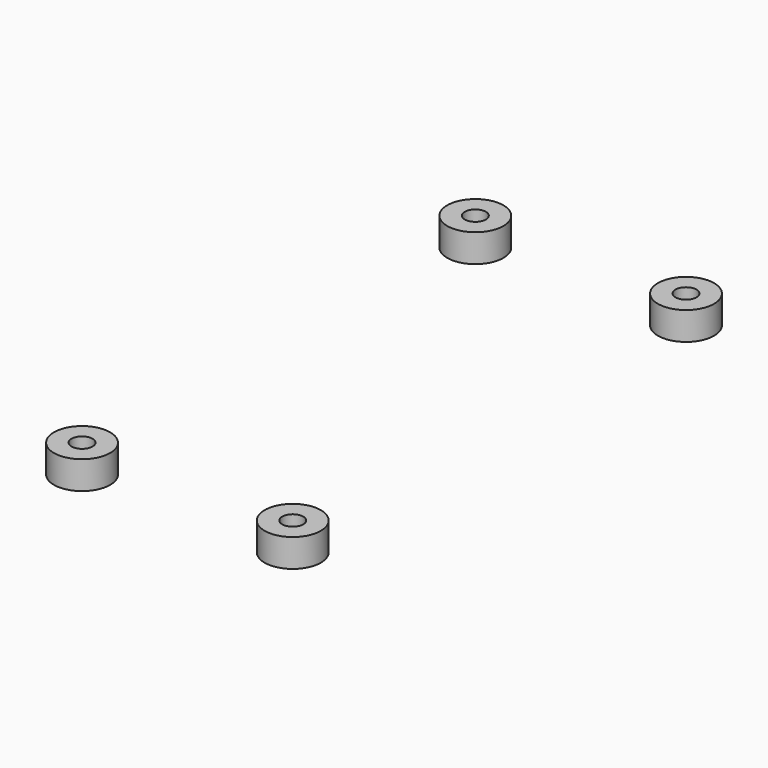
from build123d import *

# Parameters (mm, degrees)
CYLINDER037_R     = 1.5
CYLINDER037_DEPTH = 4
CYLINDER036_R     = 4
CYLINDER036_DEPTH = 4
CYLINDER039_R     = 1.5
CYLINDER039_DEPTH = 4
CYLINDER038_R     = 4
CYLINDER038_DEPTH = 4
CYLINDER041_R     = 1.5
CYLINDER041_DEPTH = 4
CYLINDER040_R     = 4
CYLINDER040_DEPTH = 4
CYLINDER034_R     = 1.5
CYLINDER034_DEPTH = 4
CYLINDER035_R     = 4
CYLINDER035_DEPTH = 4


with BuildPart() as cylinder015:
    # Cylinder037 → Cylinder037 (new body)
    with BuildSketch(Plane.XY):
        Circle(CYLINDER037_R)
    extrude(amount=CYLINDER037_DEPTH)


with BuildPart() as obj1:
    # Cylinder036 → Cylinder036 (new body)
    with BuildSketch(Plane.XY):
        Circle(CYLINDER036_R)
    extrude(amount=CYLINDER036_DEPTH)

    # Cut035: cut Cylinder015
    add(cylinder015.part, mode=Mode.SUBTRACT)


with BuildPart() as obj1_1:
    # Cut035 placement: moved
    add(obj1.part.moved(Location((-15, -35, 0))))


with BuildPart() as cylinder017:
    # Cylinder039 → Cylinder039 (new body)
    with BuildSketch(Plane.XY):
        Circle(CYLINDER039_R)
    extrude(amount=CYLINDER039_DEPTH)


with BuildPart() as obj2:
    # Cylinder038 → Cylinder038 (new body)
    with BuildSketch(Plane.XY):
        Circle(CYLINDER038_R)
    extrude(amount=CYLINDER038_DEPTH)

    # Cut036: cut Cylinder017
    add(cylinder017.part, mode=Mode.SUBTRACT)


with BuildPart() as obj2_1:
    # Cut036 placement: moved
    add(obj2.part.moved(Location((15, 35, 0))))


with BuildPart() as cylinder019:
    # Cylinder041 → Cylinder041 (new body)
    with BuildSketch(Plane.XY):
        Circle(CYLINDER041_R)
    extrude(amount=CYLINDER041_DEPTH)


with BuildPart() as obj3:
    # Cylinder040 → Cylinder040 (new body)
    with BuildSketch(Plane.XY):
        Circle(CYLINDER040_R)
    extrude(amount=CYLINDER040_DEPTH)

    # Cut037: cut Cylinder019
    add(cylinder019.part, mode=Mode.SUBTRACT)


with BuildPart() as obj3_1:
    # Cut037 placement: moved
    add(obj3.part.moved(Location((-15, 35, 0))))


with BuildPart() as cylinder012:
    # Cylinder034 → Cylinder034 (new body)
    with BuildSketch(Plane.XY):
        Circle(CYLINDER034_R)
    extrude(amount=CYLINDER034_DEPTH)


with BuildPart() as obj4:
    # Cylinder035 → Cylinder035 (new body)
    with BuildSketch(Plane.XY):
        Circle(CYLINDER035_R)
    extrude(amount=CYLINDER035_DEPTH)

    # Cut034: cut Cylinder012
    add(cylinder012.part, mode=Mode.SUBTRACT)


with BuildPart() as obj4_1:
    # Cut034 placement: moved
    add(obj4.part.moved(Location((15, -35, 0))))

    # Fusion018: union obj1, obj2, obj3
    add(obj1_1.part)
    add(obj2_1.part)
    add(obj3_1.part)


with BuildPart() as obj4_2:
    # Fusion018 placement: moved
    add(obj4_1.part.moved(Location((66, 55, -6))))


solid = obj4_2.part
